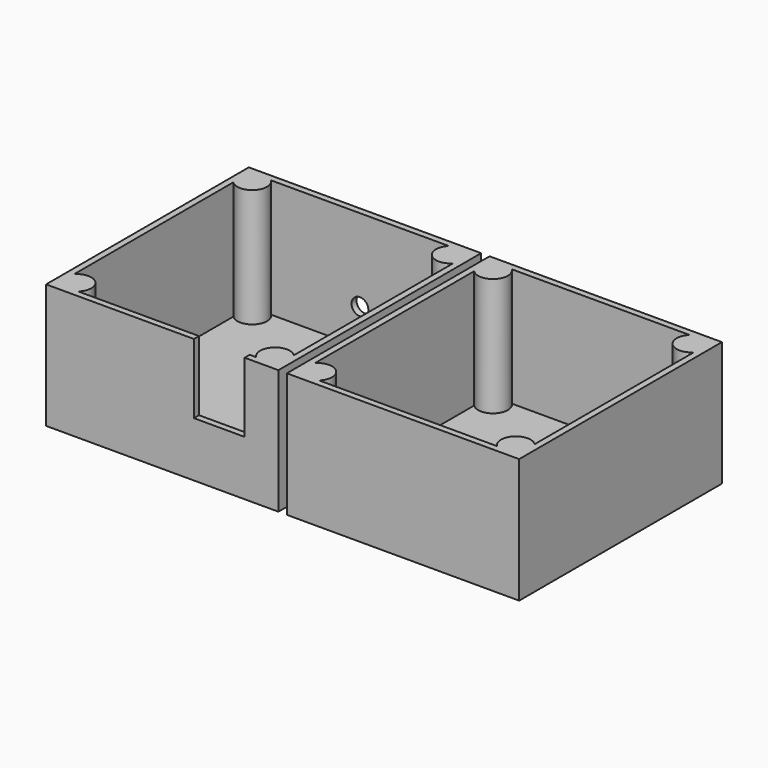
from build123d import *

# Parameters (mm, degrees)
F0_W      = 55
F0_H      = 60
F1_DEPTH  = 1.5
F2_W      = 55
F2_H      = 60
F2_W_2    = 52
F2_H_2    = 57
F3_DEPTH  = 28
F5_DEPTH  = 28
F7_R      = 11
F7_R_2    = 1.5
F8_DEPTH  = 1.501
F9_W      = 12
F9_H      = 16.5
F10_DEPTH = 1.5
F11_R     = 2
F12_DEPTH = 1.5


with BuildPart() as f1:
    # F0 (on Top) → F1 (new body)
    with BuildSketch(Plane.XY):
        with Locations((-28.5, 0)):
            Rectangle(F0_W, F0_H)
    extrude(amount=F1_DEPTH)

    # F2 (on face) → F3 (join)
    with BuildSketch(Plane.XY.offset(1.5)):
        with Locations((-28.5, 0)):
            Rectangle(F2_W, F2_H)
        with Locations((-28.5, 0)):
            Rectangle(F2_W_2, F2_H_2, mode=Mode.SUBTRACT)
    extrude(amount=F3_DEPTH)

    # F4 (on face) → F5 (join, through all)
    with BuildSketch(Plane.XY.offset(1.5)):
        with BuildLine():
            ThreePointArc((-54.5, 26), (-52, 23.5), (-49.5, 26))
            ThreePointArc((-49.5, 26), (-50.232233047, 27.767766953), (-52, 28.5))
            ThreePointArc((-52, 28.5), (-53.767766953, 27.767766953), (-54.5, 26))
        make_face()
        with BuildLine():
            ThreePointArc((-52, 28.5), (-50.232233047, 27.767766953), (-49.5, 26))
            ThreePointArc((-49.5, 26), (-52, 23.5), (-54.5, 26))
            Line((-54.5, 26), (-54.5, 23.5505102572))
            ThreePointArc((-54.5, 23.5505102572), (-49.5251262658, 23.5251262658), (-49.5505102572, 28.5))
            Line((-49.5505102572, 28.5), (-52, 28.5))
        make_face()
        with BuildLine():
            ThreePointArc((-54.5, 26), (-53.767766953, 27.767766953), (-52, 28.5))
            Line((-52, 28.5), (-54.4494897428, 28.5))
            ThreePointArc((-54.4494897428, 28.5), (-54.4748737342, 28.4748737342), (-54.5, 28.4494897428))
            Line((-54.5, 28.4494897428), (-54.5, 26))
        make_face()
        with BuildLine():
            ThreePointArc((-54.5, 28.4494897428), (-54.4748737342, 28.4748737342), (-54.4494897428, 28.5))
            Line((-54.4494897428, 28.5), (-54.5, 28.5))
            Line((-54.5, 28.5), (-54.5, 28.4494897428))
        make_face()
        with BuildLine():
            ThreePointArc((-5, 28.5), (-6.767766953, 24.232233047), (-2.5, 26))
            ThreePointArc((-2.5, 26), (-3.232233047, 27.767766953), (-5, 28.5))
        make_face()
        with BuildLine():
            Line((-2.5, 23.5505102572), (-2.5, 26))
            ThreePointArc((-2.5, 26), (-6.767766953, 24.232233047), (-5, 28.5))
            Line((-5, 28.5), (-7.4494897428, 28.5))
            ThreePointArc((-7.4494897428, 28.5), (-7.4748737342, 23.5251262658), (-2.5, 23.5505102572))
        make_face()
        with BuildLine():
            ThreePointArc((-5, 28.5), (-3.232233047, 27.767766953), (-2.5, 26))
            Line((-2.5, 26), (-2.5, 28.5))
            Line((-2.5, 28.5), (-5, 28.5))
        make_face()
        with BuildLine():
            Line((-52, -28.5), (-49.5505102572, -28.5))
            ThreePointArc((-49.5505102572, -28.5), (-49.5251262658, -23.5251262658), (-54.5, -23.5505102572))
            Line((-54.5, -23.5505102572), (-54.5, -26))
            ThreePointArc((-54.5, -26), (-52, -23.5), (-49.5, -26))
            ThreePointArc((-49.5, -26), (-50.232233047, -27.767766953), (-52, -28.5))
        make_face()
        with BuildLine():
            Line((-54.5, -28.5), (-52, -28.5))
            ThreePointArc((-52, -28.5), (-53.767766953, -27.767766953), (-54.5, -26))
            Line((-54.5, -26), (-54.5, -28.5))
        make_face()
        with BuildLine():
            ThreePointArc((-54.5, -26), (-53.767766953, -27.767766953), (-52, -28.5))
            ThreePointArc((-52, -28.5), (-50.232233047, -27.767766953), (-49.5, -26))
            ThreePointArc((-49.5, -26), (-52, -23.5), (-54.5, -26))
        make_face()
        with BuildLine():
            ThreePointArc((-2.5, -23.5505102572), (-7.4748737342, -23.5251262658), (-7.4494897428, -28.5))
            Line((-7.4494897428, -28.5), (-5, -28.5))
            ThreePointArc((-5, -28.5), (-6.767766953, -24.232233047), (-2.5, -26))
            Line((-2.5, -26), (-2.5, -23.5505102572))
        make_face()
        with BuildLine():
            ThreePointArc((-2.5, -26), (-3.232233047, -27.767766953), (-5, -28.5))
            Line((-5, -28.5), (-2.5, -28.5))
            Line((-2.5, -28.5), (-2.5, -26))
        make_face()
        with BuildLine():
            ThreePointArc((-2.5, -26), (-6.767766953, -24.232233047), (-5, -28.5))
            ThreePointArc((-5, -28.5), (-3.232233047, -27.767766953), (-2.5, -26))
        make_face()
    extrude(amount=F5_DEPTH)


with BuildPart() as f6_1:
    # F6: instance of F1
    add(f1.part.mirror(Plane.YZ))

    # F7 (on face) → F8 (cut, through all)
    with BuildSketch(Plane.XY.offset(1.5)):
        with Locations((28.5, 0)):
            Circle(F7_R)
        with Locations((4.3, 26.7)):
            Circle(F7_R_2)
        with Locations((52.7, 26.7)):
            Circle(F7_R_2)
        with Locations((52.7, -26.7)):
            Circle(F7_R_2)
        with Locations((4.3, -26.7)):
            Circle(F7_R_2)
    extrude(amount=-F8_DEPTH, mode=Mode.SUBTRACT)


with BuildPart() as f1_1:
    add(f1.part)

    # F9 (on face) → F10 (cut, through all)
    with BuildSketch(Plane.XZ.offset(30)):
        with Locations((-15, 21.25)):
            Rectangle(F9_W, F9_H)
    extrude(amount=-F10_DEPTH, mode=Mode.SUBTRACT)

    # F11 (on face) → F12 (cut, through all)
    with BuildSketch(Plane(origin=(0, 30, 0), x_dir=(-1, 0, 0), z_dir=(0, 1, 0))):
        with Locations((28.5, 10)):
            Circle(F11_R)
    extrude(amount=-F12_DEPTH, mode=Mode.SUBTRACT)


solid = Compound([f6_1.part, f1_1.part])
